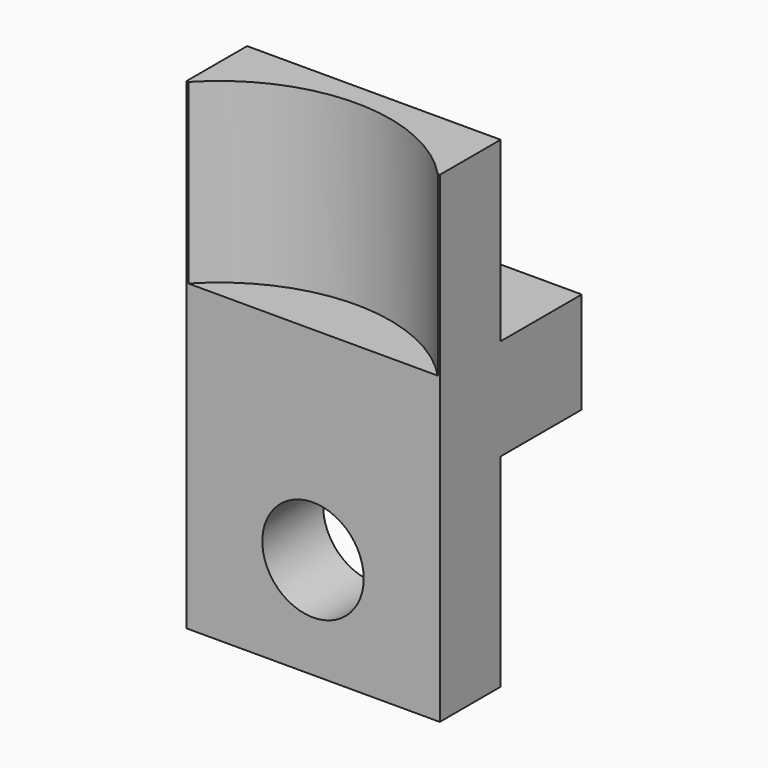
from build123d import *

# Parameters (mm, degrees)
F0_W     = 10
F0_H     = 7
F1_DEPTH = 19
F2_W     = 10
F2_H     = 4
F3_DEPTH = 7
F4_R     = 2
F5_DEPTH = 7.001
F6_W     = 10
F6_H     = 8
F7_DEPTH = 4


with BuildPart() as f1:
    # F0 (on Top) → F1 (new body)
    with BuildSketch(Plane.XY):
        Rectangle(F0_W, F0_H)
    extrude(amount=F1_DEPTH)

    # F2 (on face) → F3 (cut)
    with BuildSketch(Plane.XY.offset(19)):
        with BuildLine():
            Line((-4.921189, -3.5), (4.921189, -3.5))
            ThreePointArc((4.921189, -3.5), (0, -1.37), (-4.921189, -3.5))
        make_face()
        with Locations((0, 1.5)):
            Rectangle(F2_W, F2_H)
    extrude(amount=-F3_DEPTH, mode=Mode.SUBTRACT)

    # F4 (on face) → F5 (cut, through all)
    with BuildSketch(Plane.XZ.offset(3.5)):
        with Locations((0, 4)):
            Circle(F4_R)
    extrude(amount=-F5_DEPTH, mode=Mode.SUBTRACT)

    # F6 (on face) → F7 (cut)
    with BuildSketch(Plane(origin=(0, 3.5, 0), x_dir=(-1, 0, 0), z_dir=(0, 1, 0))):
        with Locations((0, 4)):
            Rectangle(F6_W, F6_H)
    extrude(amount=-F7_DEPTH, mode=Mode.SUBTRACT)


solid = f1.part
